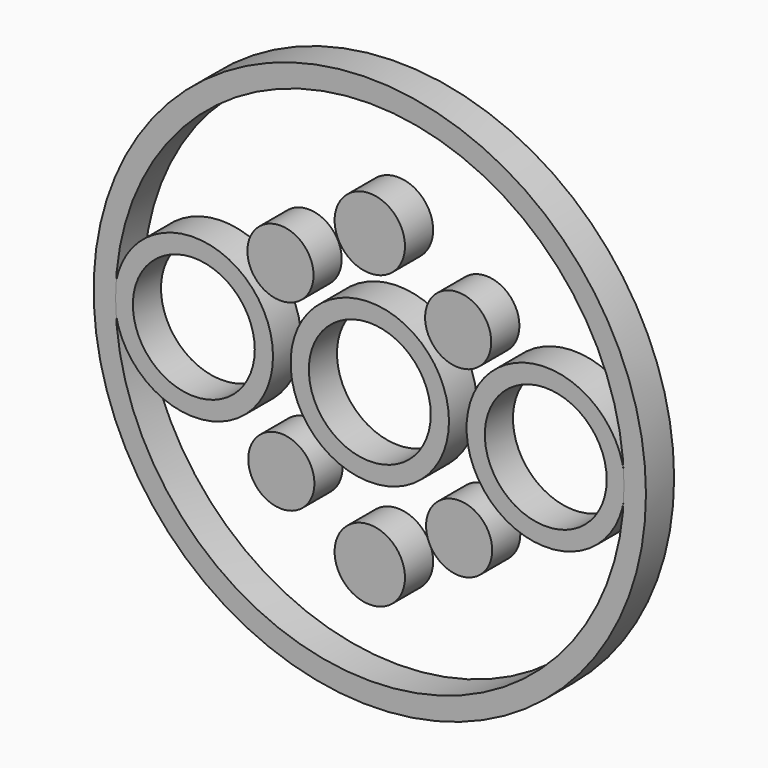
from build123d import *

# Parameters (mm, degrees)
F0_R     = 14.2875
F0_R_2   = 10.9982
F3_DEPTH = 6.35
F1_R     = 49.8306720945
F1_R_2   = 45.8694924296
F2_R     = 5.969
F6_DEPTH = 6.35
F4_R     = 6.35


with BuildPart() as f3:
    # F0 (on Front) → F3 (new body)
    with BuildSketch(Plane.XZ):
        Circle(F0_R)
        Circle(F0_R_2, mode=Mode.SUBTRACT)
    extrude(amount=F3_DEPTH)


with BuildPart() as f3b:
    # F0 (on Front) → F3, piece 2 (new body)
    with BuildSketch(Plane.XZ):
        with Locations((31.75, 0)):
            Circle(F0_R)
        with Locations((31.75, 0)):
            Circle(F0_R_2, mode=Mode.SUBTRACT)
    extrude(amount=F3_DEPTH)


with BuildPart() as f3c:
    # F0 (on Front) → F3, piece 3 (new body)
    with BuildSketch(Plane.XZ):
        with Locations((-31.75, 0)):
            Circle(F0_R)
        with Locations((-31.75, 0)):
            Circle(F0_R_2, mode=Mode.SUBTRACT)
    extrude(amount=F3_DEPTH)


with BuildPart() as f3d:
    # F1 (on Front) → F3, piece 4 (new body)
    with BuildSketch(Plane.XZ):
        Circle(F1_R)
        Circle(F1_R_2, mode=Mode.SUBTRACT)
    extrude(amount=F3_DEPTH)


with BuildPart() as f6:
    # F2 (on face) → F6 (new body)
    with BuildSketch(Plane.XZ):
        with Locations((15.9447327793, 15.0810879356)):
            Circle(F2_R)
    extrude(amount=F6_DEPTH)


with BuildPart() as f6b:
    # F2 (on face) → F6, piece 2 (new body)
    with BuildSketch(Plane.XZ):
        with Locations((-16.1173143299, 15.2516302353)):
            Circle(F2_R)
    extrude(amount=F6_DEPTH)


with BuildPart() as f6c:
    # F2 (on face) → F6, piece 3 (new body)
    with BuildSketch(Plane.XZ):
        with Locations((-15.9600784864, -17.7679953969)):
            Circle(F2_R)
    extrude(amount=F6_DEPTH)


with BuildPart() as f6d:
    # F2 (on face) → F6, piece 4 (new body)
    with BuildSketch(Plane.XZ):
        with Locations((16.1152769371, -17.9389120644)):
            Circle(F2_R)
    extrude(amount=F6_DEPTH)


with BuildPart() as f6e:
    # F4 (on face) → F6, piece 5 (new body)
    with BuildSketch(Plane.XZ):
        with Locations((0, 25.2218518232)):
            Circle(F4_R)
    extrude(amount=F6_DEPTH)


with BuildPart() as f6f:
    # F4 (on face) → F6, piece 6 (new body)
    with BuildSketch(Plane.XZ):
        with Locations((0, -27.4082663913)):
            Circle(F4_R)
    extrude(amount=F6_DEPTH)


solid = Compound([f3.part, f3b.part, f3c.part, f3d.part, f6.part, f6b.part, f6c.part, f6d.part, f6e.part, f6f.part])
